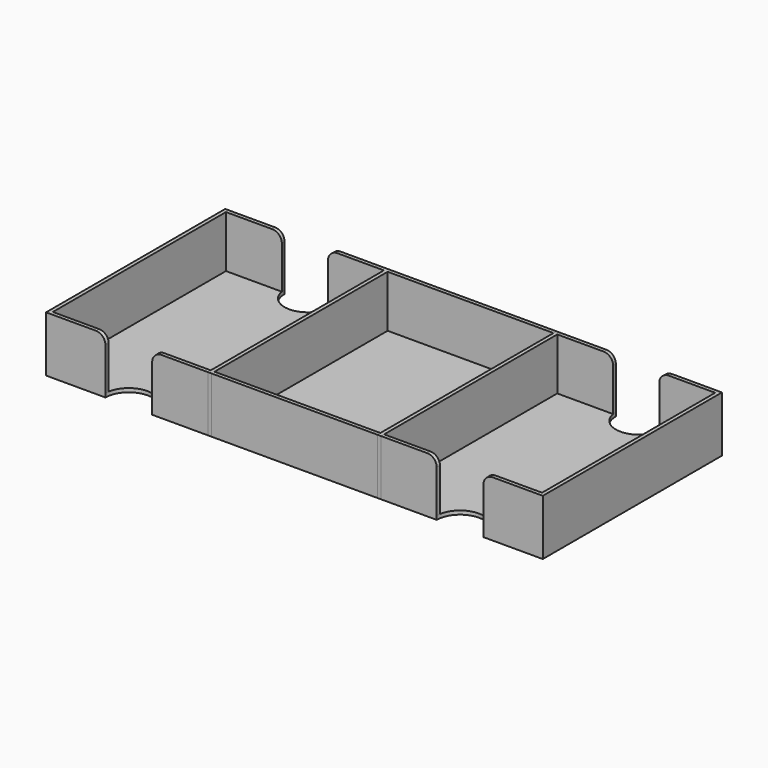
from build123d import *

# Parameters (mm, degrees)
SKETCH117_W          = 70.9
SKETCH117_H          = 92.5
PAD070_DEPTH         = 22.2
THICKNESS050_T       = 1.6
SKETCH115_W          = 67.5
SKETCH115_H          = 92.5
PAD069_DEPTH         = 22.2
THICKNESS049_T       = 1.6
SKETCH116_R          = 10
POCKET041_DEPTH      = 22.201
POCKET041_DEPTH_BACK = 1.601
FILLET016_R          = 4
SKETCH113_W          = 67.5
SKETCH113_H          = 92.5
PAD068_DEPTH         = 22.2
THICKNESS048_T       = 1.6
SKETCH114_R          = 10
POCKET040_DEPTH      = 22.201
POCKET040_DEPTH_BACK = 1.601
FILLET017_R          = 4


with BuildPart() as piecestray002:
    # Sketch117 → Pad070 (new body)
    with BuildSketch(Plane.XY):
        Rectangle(SKETCH117_W, SKETCH117_H)
    extrude(amount=PAD070_DEPTH)

    # Thickness050
    thickness050_openings = [piecestray002.faces().sort_by_distance(p)[0] for p in [
        (0, 0, 22.2),
    ]]
    offset(amount=THICKNESS050_T, openings=thickness050_openings, kind=Kind.INTERSECTION)


with BuildPart() as piecestray002_1:
    # Body062 placement: moved
    add(piecestray002.part.moved(Location((70.8, 0, 0))))


with BuildPart() as obj1:
    # Sketch115 → Pad069 (new body)
    with BuildSketch(Plane.XY):
        Rectangle(SKETCH115_W, SKETCH115_H)
    extrude(amount=PAD069_DEPTH)

    # Thickness049
    thickness049_openings = [obj1.faces().sort_by_distance(p)[0] for p in [
        (0, 0, 22.2),
    ]]
    offset(amount=THICKNESS049_T, openings=thickness049_openings, kind=Kind.INTERSECTION)

    # Sketch116 → Pocket041 (cut, two sides)
    with BuildSketch(Plane.XY) as pocket041_sk:
        with Locations((0, -47.85)):
            Circle(SKETCH116_R)
        with Locations((0, 47.85)):
            Circle(SKETCH116_R)
    extrude(amount=POCKET041_DEPTH, mode=Mode.SUBTRACT)
    extrude(pocket041_sk.sketch, amount=-POCKET041_DEPTH_BACK, mode=Mode.SUBTRACT)

    # Fillet016
    fillet016_edges = [obj1.edges().sort_by_distance(p)[0] for p in [
        (9.967741, 47.047411, 22.2),
        (-9.967741, 47.047411, 22.2),
        (-9.967741, -47.047411, 22.2),
        (9.967741, -47.047411, 22.2),
    ]]
    fillet(fillet016_edges, radius=FILLET016_R)


with BuildPart() as obj1_1:
    # Body061 placement: moved
    add(obj1.part.moved(Location((141.6, 0, 0))))


with BuildPart() as obj2:
    # Sketch113 → Pad068 (new body)
    with BuildSketch(Plane.XY):
        Rectangle(SKETCH113_W, SKETCH113_H)
    extrude(amount=PAD068_DEPTH)

    # Thickness048
    thickness048_openings = [obj2.faces().sort_by_distance(p)[0] for p in [
        (0, 0, 22.2),
    ]]
    offset(amount=THICKNESS048_T, openings=thickness048_openings, kind=Kind.INTERSECTION)

    # Sketch114 → Pocket040 (cut, two sides)
    with BuildSketch(Plane.XY) as pocket040_sk:
        with Locations((0, -47.85)):
            Circle(SKETCH114_R)
        with Locations((0, 47.85)):
            Circle(SKETCH114_R)
    extrude(amount=POCKET040_DEPTH, mode=Mode.SUBTRACT)
    extrude(pocket040_sk.sketch, amount=-POCKET040_DEPTH_BACK, mode=Mode.SUBTRACT)

    # Fillet017
    fillet017_edges = [obj2.edges().sort_by_distance(p)[0] for p in [
        (-9.967741, 47.047411, 22.2),
        (-9.967741, -47.047411, 22.2),
        (9.967741, 47.047411, 22.2),
        (9.967741, -47.047411, 22.2),
    ]]
    fillet(fillet017_edges, radius=FILLET017_R)

    # Boolean003: union PiecesTray002, obj1
    add(piecestray002_1.part)
    add(obj1_1.part)


solid = obj2.part
